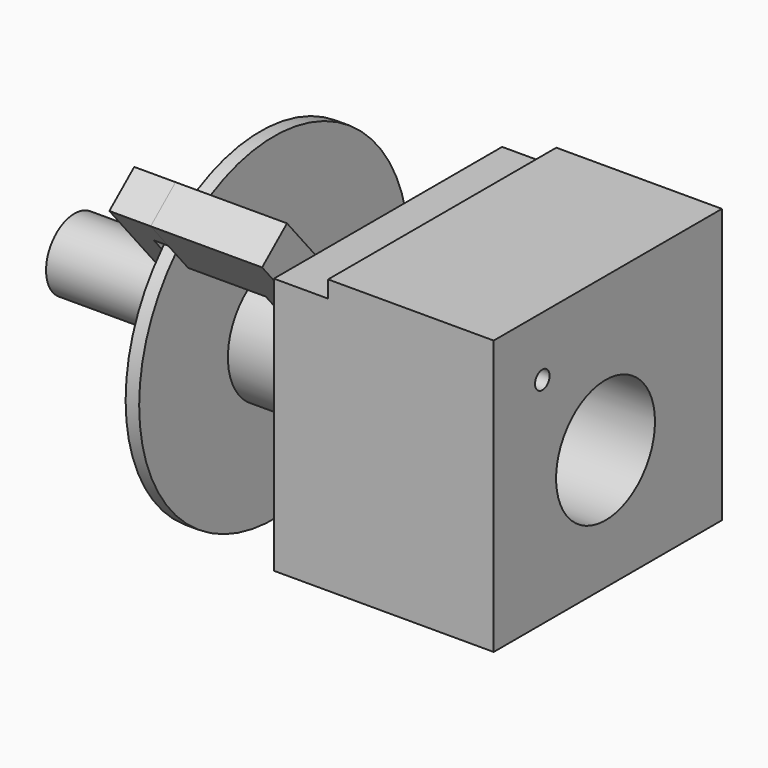
from build123d import *

# Parameters (mm, degrees)
F0_W          = 84.2324148785
F0_H          = 75.9502873162
F0_R          = 18.25
F0_R_2        = 2.6835567487
F1_DEPTH      = 64.9
F2_START      = 16
F0_H_2        = 5
F2_DEPTH      = 48.9
F0_R_3        = 10.5
F3_DEPTH      = 32
F3_DEPTH_BACK = 18.1
F4_DEPTH      = 91.9
F6_R          = 49.7512294039
F6_R_2        = 10.5
F7_DEPTH      = 4
F10_DEPTH     = 6
F11_DEPTH     = 6


with BuildPart() as f1:
    # F0 (on Right) → F1 (new body)
    with BuildSketch(Plane.YZ):
        with Locations((0.8405496071, 2.2748563419)):
            Rectangle(F0_W, F0_H)
        Circle(F0_R, mode=Mode.SUBTRACT)
        with Locations((-23.3325695414, 27.7426332311)):
            Circle(F0_R_2, mode=Mode.SUBTRACT)
    extrude(amount=F1_DEPTH)

    # F0 (on Right) → F2 (join)
    with BuildSketch(Plane.YZ.offset(F2_START)):
        with Locations((0.8405496071, 42.75)):
            Rectangle(F0_W, F0_H_2)
    extrude(amount=F2_DEPTH)

    # F0 (on Right) → F3 (join, two sides)
    with BuildSketch(Plane.YZ) as f3_sk:
        Circle(F0_R)
        Circle(F0_R_3, mode=Mode.SUBTRACT)
    extrude(amount=-F3_DEPTH)
    extrude(f3_sk.sketch, amount=F3_DEPTH_BACK)


with BuildPart() as f4:
    # F0 (on Right) → F4 (new body)
    with BuildSketch(Plane.YZ):
        Circle(F0_R_3)
    extrude(amount=-F4_DEPTH)


with BuildPart() as f7:
    # F6 (on offset) → F7 (new body)
    with BuildSketch(Plane(origin=(-33, 0, 0), x_dir=(0, -1, 0), z_dir=(-1, 0, 0))):
        Circle(F6_R)
        Circle(F6_R_2, mode=Mode.SUBTRACT)
    extrude(amount=F7_DEPTH)


with BuildPart() as f10:
    # F9 (on 3pt) → F10 (new body, symmetric)
    with BuildSketch(Plane(origin=(0, 0, 0), x_dir=(1, 0, 0), z_dir=(0, -0.7653140202, -0.6436570908))):
        Polygon((-10, 26.25), (0, 26.25), (0, 63.7512294039), (-32.9, 63.7512294039), (-32.9, 53.7512294039), (-32.9, 42.25), (-10, 42.25), align=None)
    extrude(amount=F10_DEPTH, both=True)


with BuildPart() as f11:
    # F9 (on 3pt) → F11 (new body, symmetric)
    with BuildSketch(Plane(origin=(0, 0, 0), x_dir=(1, 0, 0), z_dir=(0, -0.7653140202, -0.6436570908))):
        Polygon((-32.9, 53.7512294039), (-32.9, 63.7512294039), (-45.1, 63.7512294039), (-45.1, 36.25), (-37.1, 36.25), (-37.1, 53.7512294039), align=None)
    extrude(amount=F11_DEPTH, both=True)


solid = Compound([f1.part, f4.part, f7.part, f10.part, f11.part])
